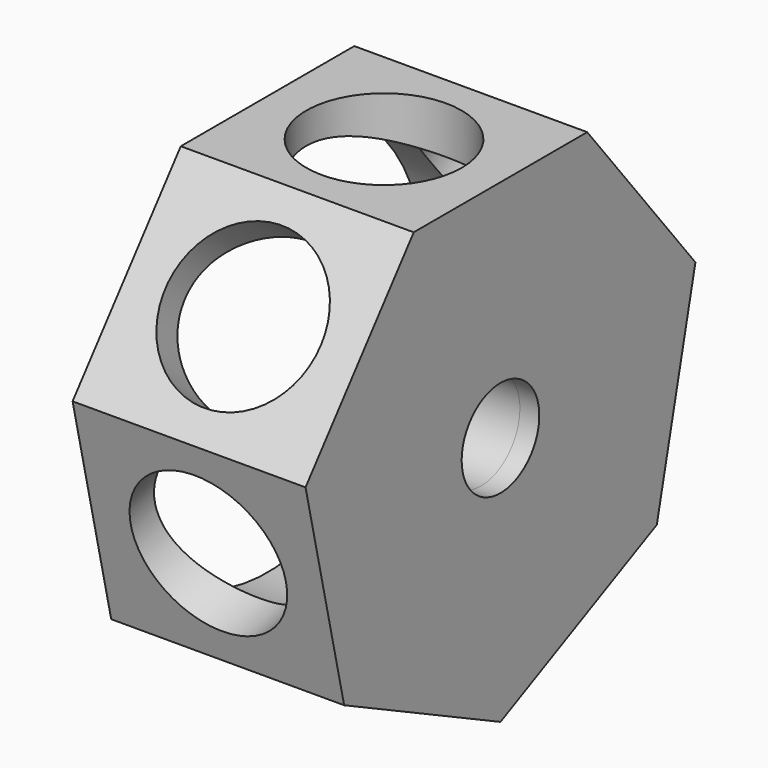
from build123d import *

# Parameters (mm, degrees)
F1_DEPTH  = 60
F2_R      = 50
F3_DEPTH  = 55
F4_R      = 12.5
F5_DEPTH  = 60.001
F8_R      = 20
F9_DEPTH  = 25
F10_COUNT = 7


with BuildPart() as f1:
    # F0 (on Right) → F1 (new body)
    with BuildSketch(Plane.YZ):
        Polygon((27.9313278908, 58), (-27.9313278908, 58), (-62.7611240755, 14.3248170156), (-50.3305137376, -40.1372453545), (0, -64.3751433221), (50.3305137376, -40.1372453545), (62.7611240755, 14.3248170156), align=None)
    extrude(amount=F1_DEPTH)

    # F2 (on face) → F3 (cut)
    with BuildSketch(Plane(origin=(0, 0, 0), x_dir=(0, -1, 0), z_dir=(-1, 0, 0))):
        Circle(F2_R)
    extrude(amount=-F3_DEPTH, mode=Mode.SUBTRACT)

    # F4 (on face) → F5 (cut, through all)
    with BuildSketch(Plane(origin=(0, 0, 0), x_dir=(0, -1, 0), z_dir=(-1, 0, 0))):
        Circle(F4_R)
    extrude(amount=-F5_DEPTH, mode=Mode.SUBTRACT)

    # F6 (on Front) → F7 (revolve)
    with BuildSketch(Plane.XZ):
        with BuildLine():
            Line((43, 17.5), (43, 12.5))
            Line((43, 12.5), (55, 12.5))
            Line((55, 12.5), (55, 22.5))
            ThreePointArc((55, 22.5), (53.5355339059, 18.9644660941), (50, 17.5))
            Line((50, 17.5), (43, 17.5))
        make_face()
    revolve(axis=Axis((55, 0, 0), (-1, 0, 0)))

    # F8 (on face) → F9 (cut)
    with BuildSketch(Plane.XY.offset(58)):
        with Locations((30, 0)):
            Circle(F8_R)
    f9 = extrude(amount=-F9_DEPTH, mode=Mode.SUBTRACT)

    # F10: F9 ×7 about axis
    f10_axis = Axis((60, 0, 0), (-1, 0, 0))
    for i in range(1, F10_COUNT):
        add(f9.rotate(f10_axis, i * 360 / F10_COUNT), mode=Mode.SUBTRACT)


solid = f1.part
